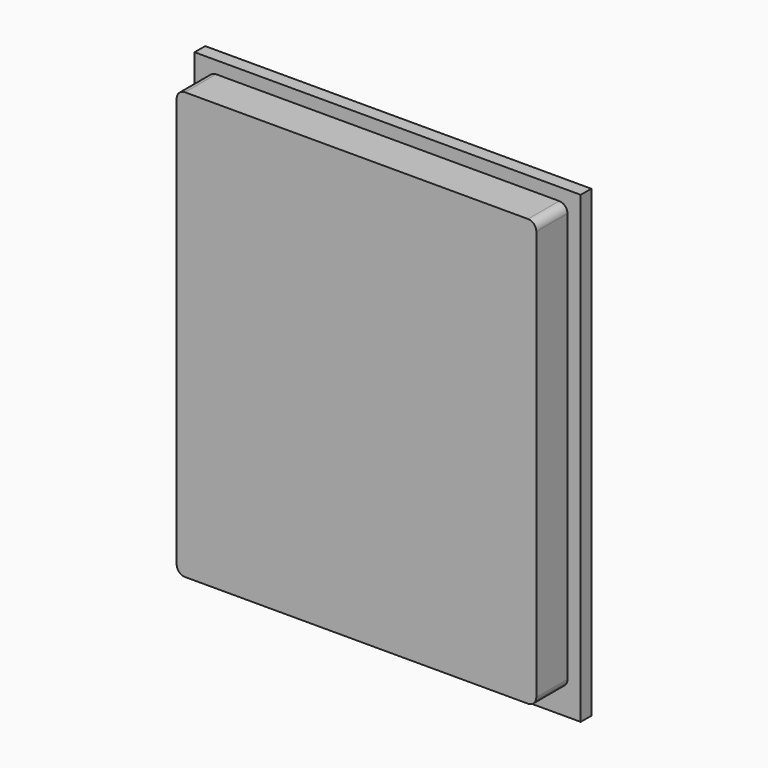
from build123d import *

# Parameters (mm, degrees)
F0_W     = 23.3
F0_H     = 28
F1_DEPTH = 0.8
F2_W     = 21.7
F2_H     = 25.75
F3_DEPTH = 2.35
F4_R     = 0.5


with BuildPart() as f1:
    # F0 (on Front) → F1 (new body)
    with BuildSketch(Plane.XZ):
        Rectangle(F0_W, F0_H)
    extrude(amount=F1_DEPTH)

    # F2 (on face) → F3 (join)
    with BuildSketch(Plane.XZ.offset(0.8)):
        with Locations((0, 0.375)):
            Rectangle(F2_W, F2_H)
    extrude(amount=F3_DEPTH)

    # F4
    f4_edges = [f1.edges().sort_by_distance(p)[0] for p in [
        (-10.85, -1.975, -12.5),
        (10.85, -1.975, -12.5),
        (10.85, -1.975, 13.25),
        (-10.85, -1.975, 13.25),
    ]]
    fillet(f4_edges, radius=F4_R)


solid = f1.part
